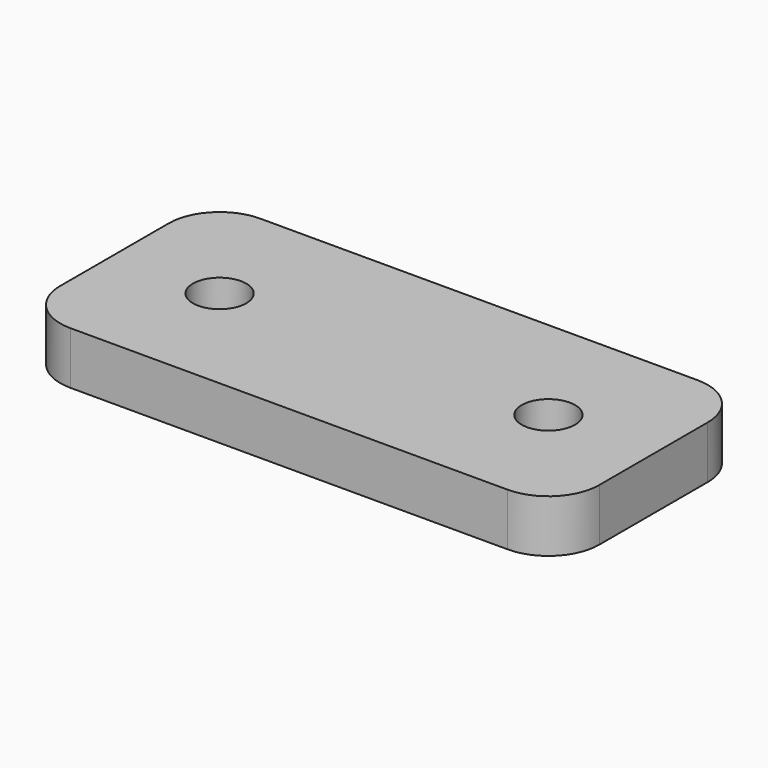
from build123d import *

# Parameters (mm, degrees)
F0_W     = 31.8
F0_H     = 14
F0_R     = 1.575
F1_DEPTH = 3.1
F2_R     = 3


with BuildPart() as f1:
    # F0 (on Top) → F1 (new body)
    with BuildSketch(Plane.XY):
        Rectangle(F0_W, F0_H)
        with Locations((-9.7, 0)):
            Circle(F0_R, mode=Mode.SUBTRACT)
        with Locations((9.7, 0)):
            Circle(F0_R, mode=Mode.SUBTRACT)
    extrude(amount=F1_DEPTH)

    # F2
    f2_edges = [f1.edges().sort_by_distance(p)[0] for p in [
        (-15.9, -7, 1.55),
        (15.9, -7, 1.55),
        (-15.9, 7, 1.55),
        (15.9, 7, 1.55),
    ]]
    fillet(f2_edges, radius=F2_R)


solid = f1.part
